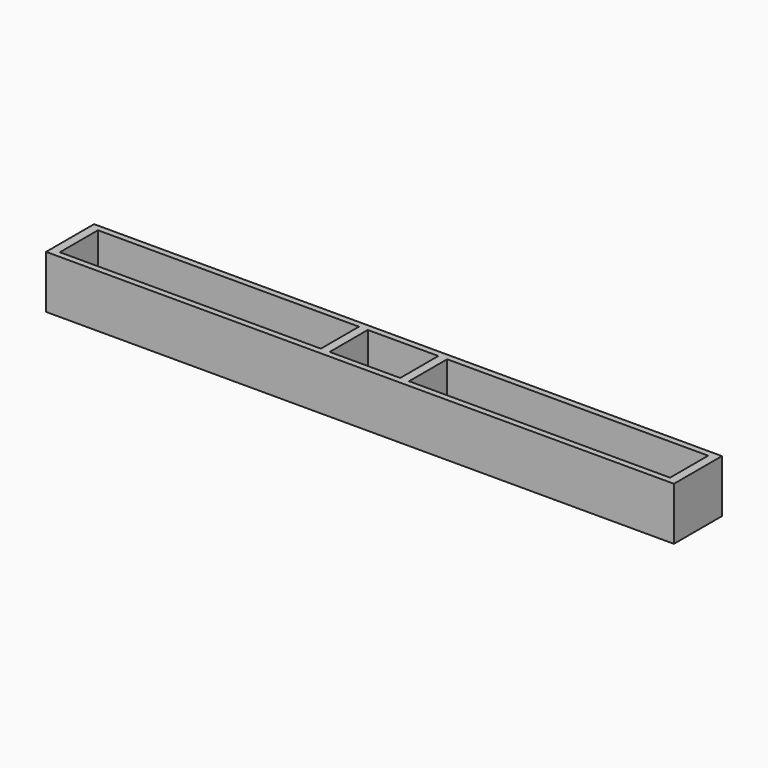
from build123d import *

# Parameters (mm, degrees)
F0_W     = 178
F0_H     = 17
F0_W_2   = 2.5
F0_H_2   = 13.5
F1_DEPTH = 15
F0_W_3   = 74
F2_DEPTH = 3


with BuildPart() as f1:
    # F0 (on Top) → F1 (new body)
    with BuildSketch(Plane.XY):
        Rectangle(F0_W, F0_H)
        Polygon((-10, -6.75), (-12.5, -6.75), (-86.5, -6.75), (-86.5, 6.75), (-12.5, 6.75), (-10, 6.75), (10, 6.75), (12.5, 6.75), (86.5, 6.75), (86.5, -6.75), (12.5, -6.75), (10, -6.75), align=None, mode=Mode.SUBTRACT)
        with Locations((-11.25, 0)):
            Rectangle(F0_W_2, F0_H_2)
        with Locations((11.25, 0)):
            Rectangle(F0_W_2, F0_H_2)
    extrude(amount=F1_DEPTH)

    # F0 (on Top) → F2 (join)
    with BuildSketch(Plane.XY):
        with Locations((-49.5, 0)):
            Rectangle(F0_W_3, F0_H_2)
        with Locations((49.5, 0)):
            Rectangle(F0_W_3, F0_H_2)
    extrude(amount=F2_DEPTH)


solid = f1.part
